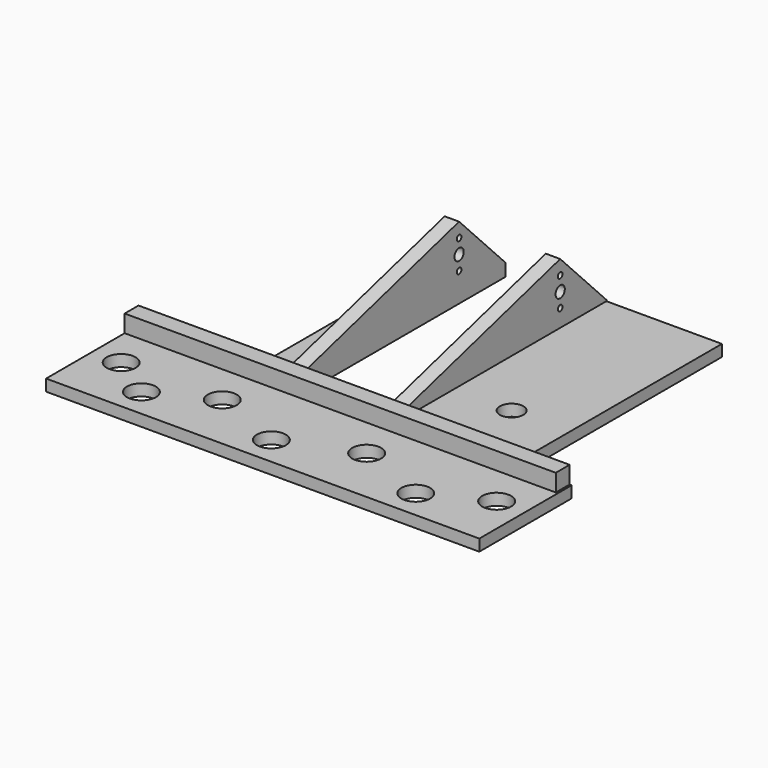
from build123d import *

# Parameters (mm, degrees)
PAD_DEPTH       = 2
PAD001_DEPTH    = 2.5
SKETCH002_R     = 1
SKETCH002_R_2   = 0.5
POCKET_DEPTH    = 5
SKETCH003_R     = 2.5
POCKET001_DEPTH = 2
SKETCH004_W     = 74.639832
SKETCH004_H     = 3
PAD002_DEPTH    = 3
SKETCH005_R     = 2.032906
POCKET002_DEPTH = 2


with BuildPart() as part:
    # Sketch → Pad (new body)
    with BuildSketch(Plane.XY):
        Polygon((-35, 0), (-15, 0), (-15, 45), (-10, 45), (-10, 0), (10, 0), (10, 45), (30, 45), (30, 0), (40, 0), (40, -20), (-35, -20), align=None)
    extrude(amount=PAD_DEPTH)

    # Sketch001 (on Face4 of Pad) → Pad001 (join)
    with BuildSketch(Plane.YZ.offset(-10)):
        Polygon((-3, 0), (-3, 2), (35, 12.5), (45, 2.20967), (45, 0), align=None)
    pad001 = extrude(amount=PAD001_DEPTH)

    # Sketch002 (on Face16 of Pad001) → Pocket (cut)
    with BuildSketch(Plane.YZ.offset(-7.5)):
        with Locations((35, 7.5)):
            Circle(SKETCH002_R)
        with Locations((35, 10)):
            Circle(SKETCH002_R_2)
        with Locations((35, 5)):
            Circle(SKETCH002_R_2)
    pocket = extrude(amount=-POCKET_DEPTH, mode=Mode.SUBTRACT)

    # Mirrored: Pad001, Pocket across YZ
    add(pad001.mirror(Plane.YZ))
    add(pocket.mirror(Plane.YZ), mode=Mode.SUBTRACT)

    # Sketch003 (on Face5 of Mirrored) → Pocket001 (cut)
    with BuildSketch(Plane.XY.offset(2)):
        with Locations((-30, -10)):
            Circle(SKETCH003_R)
        with Locations((-22.5, -15)):
            Circle(SKETCH003_R)
        with Locations((-12.5, -10)):
            Circle(SKETCH003_R)
        with Locations((35, -10)):
            Circle(SKETCH003_R)
        with Locations((25, -15)):
            Circle(SKETCH003_R)
        with Locations((12.5, -10)):
            Circle(SKETCH003_R)
        with Locations((0, -15)):
            Circle(SKETCH003_R)
    extrude(amount=-POCKET001_DEPTH, mode=Mode.SUBTRACT)

    # Sketch004 (on Face5 of Pocket001) → Pad002 (join)
    with BuildSketch(Plane.XY.offset(2)):
        with Locations((2.319916, -1.5)):
            Rectangle(SKETCH004_W, SKETCH004_H)
    extrude(amount=PAD002_DEPTH)

    # Sketch005 (on Face33 of Pad002) → Pocket002 (cut)
    with BuildSketch(Plane.XY.offset(2)):
        with Locations((20, 12)):
            Circle(SKETCH005_R)
    extrude(amount=-POCKET002_DEPTH, mode=Mode.SUBTRACT)


solid = part.part
